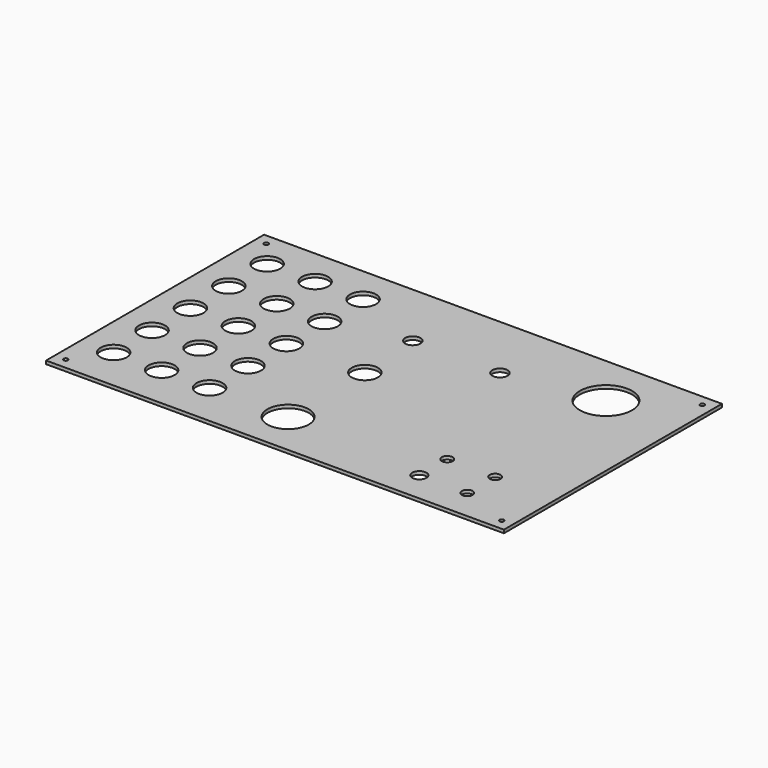
from build123d import *

# Parameters (mm, degrees)
SKETCH_W   = 210
SKETCH_H   = 125
SKETCH_R   = 6
SKETCH_R_2 = 12
SKETCH_R_3 = 2.5
SKETCH_R_4 = 3.25
SKETCH_R_5 = 1
SKETCH_R_6 = 9.5
SKETCH_R_7 = 3.5
PAD_DEPTH  = 1.5


with BuildPart() as part:
    # Sketch → Pad (new body)
    with BuildSketch(Plane.XY):
        with Locations((105, 62.5)):
            Rectangle(SKETCH_W, SKETCH_H)
        with Locations((15, 108)):
            Circle(SKETCH_R, mode=Mode.SUBTRACT)
        with Locations((15, 86)):
            Circle(SKETCH_R, mode=Mode.SUBTRACT)
        with Locations((15, 64)):
            Circle(SKETCH_R, mode=Mode.SUBTRACT)
        with Locations((15, 42)):
            Circle(SKETCH_R, mode=Mode.SUBTRACT)
        with Locations((15, 20)):
            Circle(SKETCH_R, mode=Mode.SUBTRACT)
        with Locations((176, 101)):
            Circle(SKETCH_R_2, mode=Mode.SUBTRACT)
        with Locations((182, 14)):
            Circle(SKETCH_R_3, mode=Mode.SUBTRACT)
        with Locations((182, 30)):
            Circle(SKETCH_R_3, mode=Mode.SUBTRACT)
        with Locations((160, 30)):
            Circle(SKETCH_R_3, mode=Mode.SUBTRACT)
        with Locations((160, 14)):
            Circle(SKETCH_R_4, mode=Mode.SUBTRACT)
        with Locations((95, 64)):
            Circle(SKETCH_R, mode=Mode.SUBTRACT)
        with Locations((205, 120)):
            Circle(SKETCH_R_5, mode=Mode.SUBTRACT)
        with Locations((37, 108)):
            Circle(SKETCH_R, mode=Mode.SUBTRACT)
        with Locations((37, 86)):
            Circle(SKETCH_R, mode=Mode.SUBTRACT)
        with Locations((37, 64)):
            Circle(SKETCH_R, mode=Mode.SUBTRACT)
        with Locations((37, 42)):
            Circle(SKETCH_R, mode=Mode.SUBTRACT)
        with Locations((37, 20)):
            Circle(SKETCH_R, mode=Mode.SUBTRACT)
        with Locations((59, 108)):
            Circle(SKETCH_R, mode=Mode.SUBTRACT)
        with Locations((59, 86)):
            Circle(SKETCH_R, mode=Mode.SUBTRACT)
        with Locations((59, 64)):
            Circle(SKETCH_R, mode=Mode.SUBTRACT)
        with Locations((59, 42)):
            Circle(SKETCH_R, mode=Mode.SUBTRACT)
        with Locations((59, 20)):
            Circle(SKETCH_R, mode=Mode.SUBTRACT)
        with Locations((95, 20)):
            Circle(SKETCH_R_6, mode=Mode.SUBTRACT)
        with Locations((205, 5)):
            Circle(SKETCH_R_5, mode=Mode.SUBTRACT)
        with Locations((5, 5)):
            Circle(SKETCH_R_5, mode=Mode.SUBTRACT)
        with Locations((5, 120)):
            Circle(SKETCH_R_5, mode=Mode.SUBTRACT)
        with Locations((93, 94)):
            Circle(SKETCH_R_7, mode=Mode.SUBTRACT)
        with Locations((133, 94)):
            Circle(SKETCH_R_7, mode=Mode.SUBTRACT)
    extrude(amount=PAD_DEPTH)


solid = part.part
